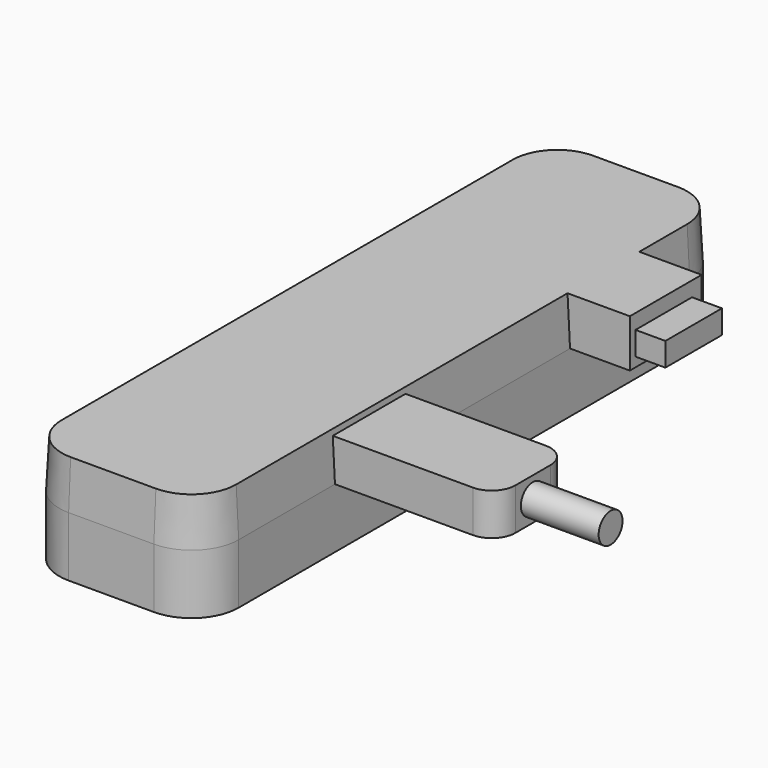
from build123d import *

# Parameters (mm, degrees)
F1_DEPTH      = 12.7
F1_DEPTH_BACK = 10.16
F1_TAPER_BACK = 3
F2_W          = 19.304
F2_H          = 8.89
F3_DEPTH      = 34.29
F3_DEPTH_BACK = 0.4659051578
F4_R          = 5
F5_R          = 3.175
F6_DEPTH      = 16.51
F7_W          = 19.05
F7_H          = 10.16
F8_DEPTH      = 12.7
F8_DEPTH_BACK = 0.5324630375
F9_W          = 15
F9_H          = 5
F10_DEPTH     = 6.35


with BuildPart() as f1:
    # F0 (on Top) → F1 (new body, two sides)
    with BuildSketch(Plane.XY) as f1_sk:
        with BuildLine():
            Line((9.05, 69.85), (-9.05, 69.85))
            ThreePointArc((-9.05, 69.85), (-16.1210678119, 66.9210678119), (-19.05, 59.85))
            Line((-19.05, 59.85), (-19.05, -59.85))
            ThreePointArc((-19.05, -59.85), (-16.1210678119, -66.9210678119), (-9.05, -69.85))
            Line((-9.05, -69.85), (9.05, -69.85))
            ThreePointArc((9.05, -69.85), (16.1210678119, -66.9210678119), (19.05, -59.85))
            Line((19.05, -59.85), (19.05, 59.85))
            ThreePointArc((19.05, 59.85), (16.1210678119, 66.9210678119), (9.05, 69.85))
        make_face()
    extrude(amount=-F1_DEPTH)
    extrude(f1_sk.sketch, amount=F1_DEPTH_BACK, taper=F1_TAPER_BACK)

    # F2 (on face) → F3 (join, two sides)
    with BuildSketch(Plane.YZ.offset(19.05)) as f3_sk:
        with Locations((-24.638, 4.445)):
            Rectangle(F2_W, F2_H)
    extrude(amount=F3_DEPTH)
    extrude(f3_sk.sketch, amount=-F3_DEPTH_BACK)

    # F4
    f4_edges = [f1.edges().sort_by_distance(p)[0] for p in [
        (53.34, -34.29, 4.445),
        (53.34, -14.986, 4.445),
    ]]
    fillet(f4_edges, radius=F4_R)

    # F5 (on face) → F6 (join)
    with BuildSketch(Plane.YZ.offset(53.34)):
        with Locations((-24.638, 4.445)):
            Circle(F5_R)
    extrude(amount=F6_DEPTH)

    # F7 (on face) → F8 (join, two sides)
    with BuildSketch(Plane.YZ.offset(19.05)) as f8_sk:
        with Locations((37.625, 5.08)):
            Rectangle(F7_W, F7_H)
    extrude(amount=F8_DEPTH)
    extrude(f8_sk.sketch, amount=-F8_DEPTH_BACK)

    # F9 (on face) → F10 (join)
    with BuildSketch(Plane.YZ.offset(31.75)):
        with Locations((37.1, 4.5)):
            Rectangle(F9_W, F9_H)
    extrude(amount=F10_DEPTH)


solid = f1.part
